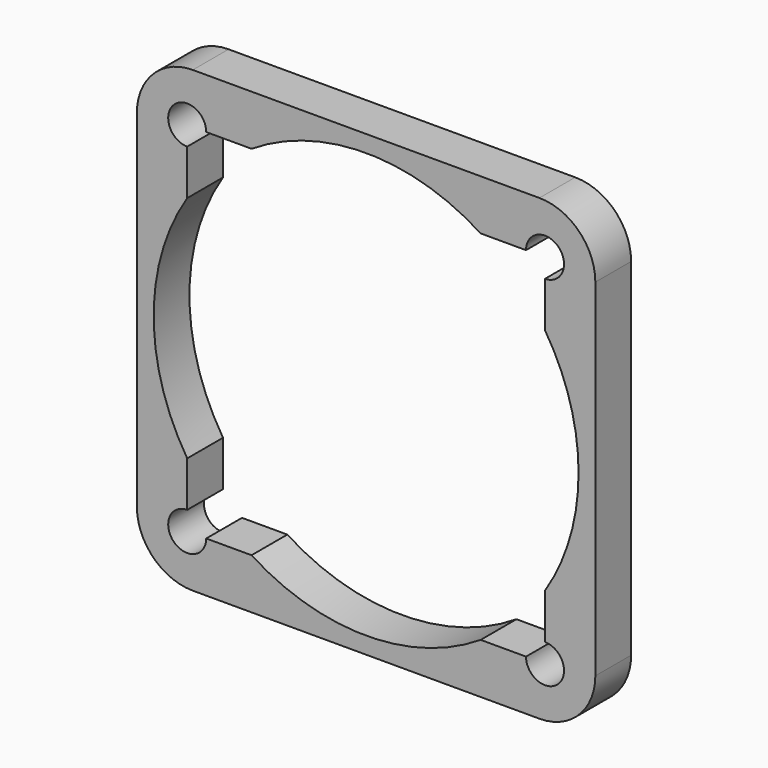
from build123d import *

# Parameters (mm, degrees)
F0_W     = 41
F0_H     = 41
F1_DEPTH = 4
F2_R     = 5


with BuildPart() as f1:
    # F0 (on Front) → F1 (new body)
    with BuildSketch(Plane.XZ):
        Rectangle(F0_W, F0_H)
        with BuildLine():
            ThreePointArc((-16, 14.3), (-17.202082, 17.202082), (-14.3, 16))
            Line((-14.3, 16), (-10.246951, 16))
            ThreePointArc((-10.246951, 16), (0, 19), (10.246951, 16))
            Line((10.246951, 16), (14.3, 16))
            ThreePointArc((14.3, 16), (16, 17.7), (17.7, 16))
            ThreePointArc((17.7, 16), (17.202082, 14.797918), (16, 14.3))
            Line((16, 14.3), (16, 10.246951))
            ThreePointArc((16, 10.246951), (18.234583, 5.338539), (19, 0))
            ThreePointArc((19, 0), (18.234583, -5.338539), (16, -10.246951))
            Line((16, -10.246951), (16, -14.3))
            ThreePointArc((16, -14.3), (17.202082, -14.797918), (17.7, -16))
            ThreePointArc((17.7, -16), (16, -17.7), (14.3, -16))
            Line((14.3, -16), (10.246951, -16))
            ThreePointArc((10.246951, -16), (0, -19), (-10.246951, -16))
            Line((-10.246951, -16), (-14.3, -16))
            ThreePointArc((-14.3, -16), (-17.202082, -17.202082), (-16, -14.3))
            Line((-16, -14.3), (-16, -10.246951))
            ThreePointArc((-16, -10.246951), (-19, 0), (-16, 10.246951))
            Line((-16, 10.246951), (-16, 14.3))
        make_face(mode=Mode.SUBTRACT)
    extrude(amount=F1_DEPTH)

    # F2
    f2_edges = [f1.edges().sort_by_distance(p)[0] for p in [
        (-20.5, -2, -20.5),
        (20.5, -2, -20.5),
        (20.5, -2, 20.5),
        (-20.5, -2, 20.5),
    ]]
    fillet(f2_edges, radius=F2_R)


solid = f1.part
